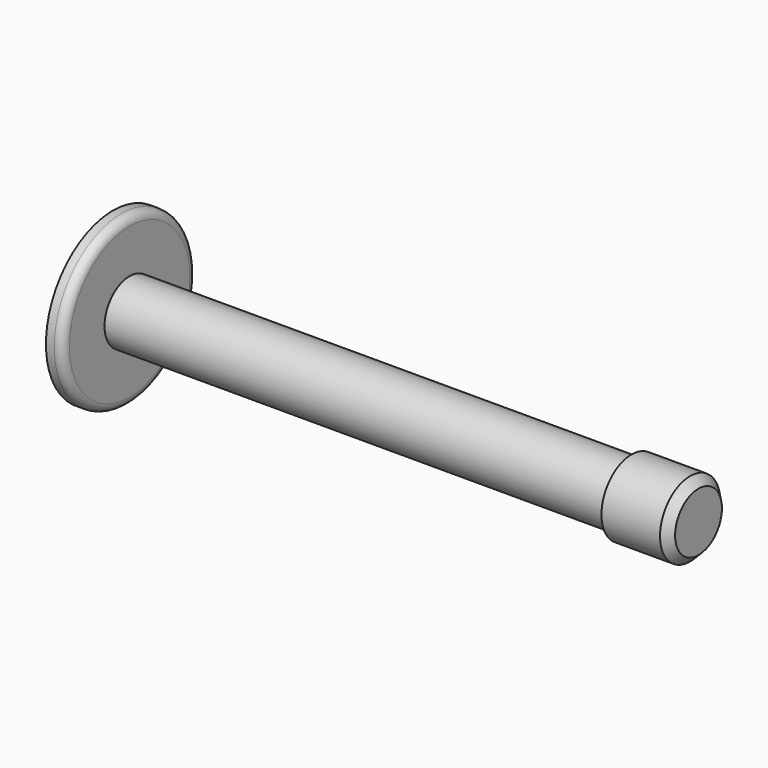
from build123d import *

# Parameters (mm, degrees)
F0_R     = 25.4
F1_DEPTH = 5.08
F2_R     = 2.54
F3_R     = 9.525
F4_DEPTH = 152.4
F5_R     = 11.43
F5_R_2   = 9.525
F6_DEPTH = 20.32
F7_SIZE  = 2.54


with BuildPart() as f1:
    # F0 (on Right) → F1 (new body)
    with BuildSketch(Plane.YZ):
        Circle(F0_R)
    extrude(amount=F1_DEPTH)

    # F2
    f2_edges = [f1.edges().sort_by_distance(p)[0] for p in [
        (5.08, -25.4, 0),
    ]]
    fillet(f2_edges, radius=F2_R)

    # F3 (on face) → F4 (join)
    with BuildSketch(Plane.YZ.offset(5.08)):
        Circle(F3_R)
    extrude(amount=F4_DEPTH)

    # F5 (on face) → F6 (join)
    with BuildSketch(Plane.YZ.offset(157.48)):
        Circle(F5_R)
        Circle(F5_R_2, mode=Mode.SUBTRACT)
        Circle(F5_R_2)
    extrude(amount=F6_DEPTH)

    # F7
    f7_edges = [f1.edges().sort_by_distance(p)[0] for p in [
        (177.8, -11.43, 0),
    ]]
    chamfer(f7_edges, length=F7_SIZE)


solid = f1.part
